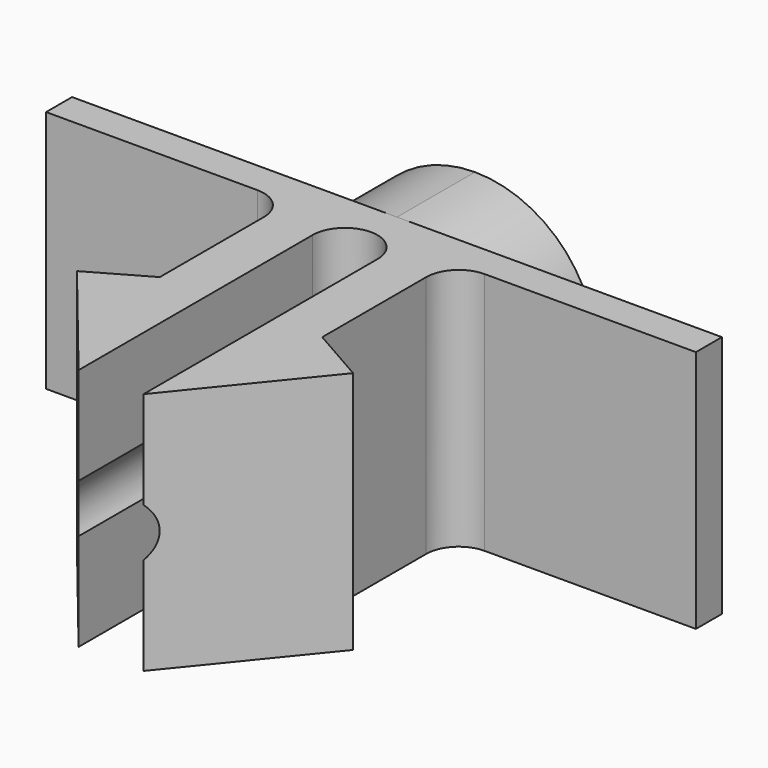
from build123d import *

# Parameters (mm, degrees)
F1_DEPTH = 7.5
F2_R     = 1
F3_R     = 1.25
F4_DEPTH = 3
F5_DEPTH = 13


with BuildPart() as f1:
    # F0 (on Top) → F1 (new body)
    with BuildSketch(Plane.XY):
        with BuildLine():
            Line((-4.25, 4), (-1, 0))
            Line((-1, 0), (-1, 9))
            ThreePointArc((-1, 9), (0, 10), (1, 9))
            Line((1, 9), (1, 0))
            Line((1, 0), (4.25, 4))
            Line((4.25, 4), (2.5, 5))
            Line((2.5, 5), (2.5, 10))
            Line((2.5, 10), (10, 10))
            Line((10, 10), (10, 11))
            Line((10, 11), (-10, 11))
            Line((-10, 11), (-10, 10))
            Line((-10, 10), (-2.5, 10))
            Line((-2.5, 10), (-2.5, 5))
            Line((-2.5, 5), (-4.25, 4))
        make_face()
    extrude(amount=F1_DEPTH)

    # F2
    f2_edges = [f1.edges().sort_by_distance(p)[0] for p in [
        (2.5, 10, 3.75),
        (-2.5, 10, 3.75),
    ]]
    fillet(f2_edges, radius=F2_R)

    # F3 (on face) → F4 (join)
    with BuildSketch(Plane(origin=(0, 11, 0), x_dir=(-1, 0, 0), z_dir=(0, 1, 0))):
        with BuildLine():
            ThreePointArc((0, 0), (2.65165, 1.09835), (3.75, 3.75))
            ThreePointArc((3.75, 3.75), (2.65165, 6.40165), (0, 7.5))
            ThreePointArc((0, 7.5), (-3.75, 3.75), (0, 0))
        make_face()
        with Locations((0, 3.75)):
            Circle(F3_R, mode=Mode.SUBTRACT)
    extrude(amount=F4_DEPTH)

    # F3 (on face) → F5 (cut)
    with BuildSketch(Plane(origin=(0, 11, 0), x_dir=(-1, 0, 0), z_dir=(0, 1, 0))):
        with Locations((0, 3.75)):
            Circle(F3_R)
    extrude(amount=-F5_DEPTH, mode=Mode.SUBTRACT)


solid = f1.part
